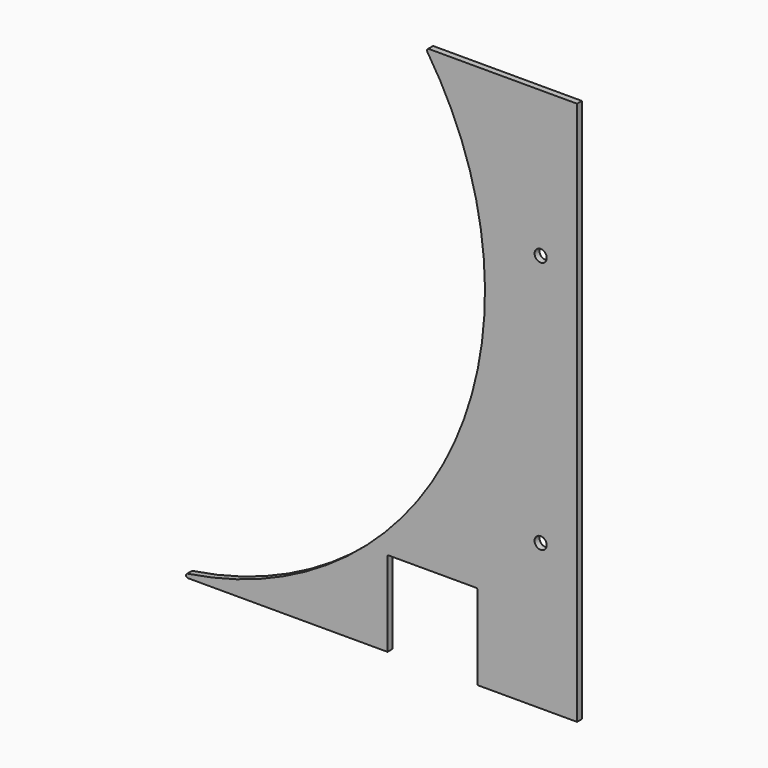
from build123d import *

# Parameters (mm, degrees)
F0_R     = 3.175
F1_DEPTH = 3.175
F3_R     = 1.016


with BuildPart() as f1:
    # F0 (on Front) → F1 (new body)
    with BuildSketch(Plane.XZ):
        with BuildLine():
            ThreePointArc((151.351172, 102.087654), (161.19312, -85.707902), (0, -182.5625))
            Line((0, -182.5625), (131.587777, -182.5625))
            Line((131.587777, -182.5625), (131.587777, -138.5951))
            ThreePointArc((131.587777, -138.5951), (131.773765, -138.146087), (132.222777, -137.9601))
            Line((132.222777, -137.9601), (177.942777, -137.9601))
            ThreePointArc((177.942777, -137.9601), (178.39179, -138.146087), (178.577777, -138.5951))
            Line((178.577777, -138.5951), (178.577777, -182.5625))
            Line((178.577777, -182.5625), (230.726172, -182.5625))
            Line((230.726172, -182.5625), (230.726172, 102.087654))
            Line((230.726172, 102.087654), (151.351172, 102.087654))
        make_face()
        with Locations((211.676172, -106.3625)):
            Circle(F0_R, mode=Mode.SUBTRACT)
        with Locations((211.676172, 25.887654)):
            Circle(F0_R, mode=Mode.SUBTRACT)
    extrude(amount=F1_DEPTH)

    # F3
    f3_edges = [f1.edges().sort_by_distance(p)[0] for p in [
        (151.351172, -1.5875, 102.087654),
        (0, -1.5875, -182.5625),
    ]]
    fillet(f3_edges, radius=F3_R)


solid = f1.part
